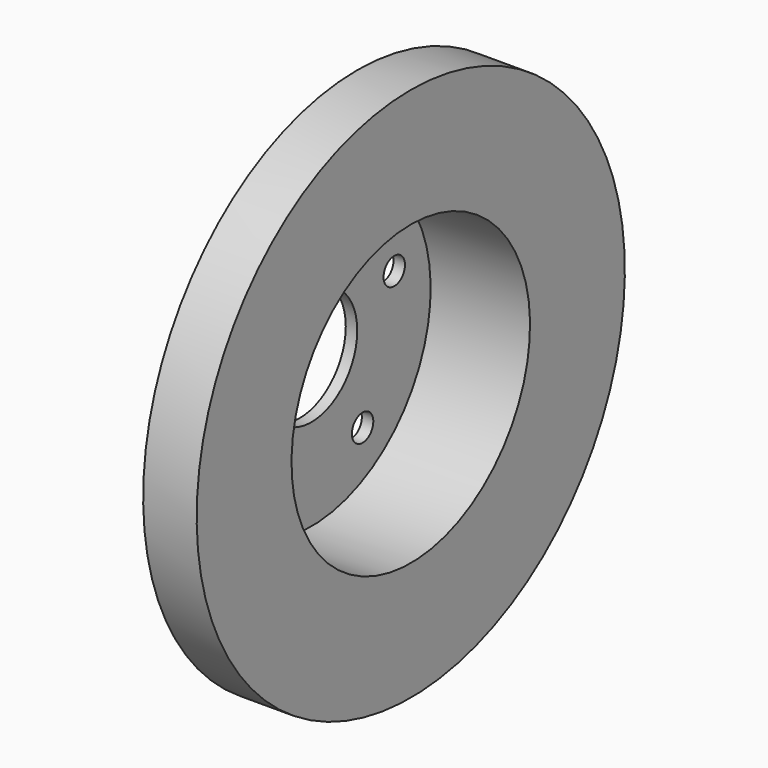
from build123d import *

# Parameters (mm, degrees)
F0_W     = 28
F0_H     = 60
F3_R     = 30
F3_R_2   = 7
F4_DEPTH = 7
F5_COUNT = 5


with BuildPart() as f1:
    # F0 (on Front) → F1 (revolve)
    with BuildSketch(Plane.XZ):
        Polygon((-52, 78), (0, 78), (0, 80), (-28, 80), (-52, 80), align=None)
        with Locations((-14, 110)):
            Rectangle(F0_W, F0_H)
        Polygon((-52, 0), (-52, 78), (-52, 80), (-58, 80), (-58, 0), align=None)
    revolve(axis=Axis((-29, 0, 0), (1, 0, 0)))

    # F3 (on offset) → F4 (cut)
    with BuildSketch(Plane.YZ.offset(-58)):
        Circle(F3_R)
        with Locations((0, 57)):
            Circle(F3_R_2)
    f4 = extrude(amount=F4_DEPTH, mode=Mode.SUBTRACT)

    # F5: F4 ×5 about axis
    f5_axis = Axis((-58, 0, 0), (1, 0, 0))
    for i in range(1, F5_COUNT):
        add(f4.solids().sort_by_distance((-54.5, -7, 57))[0].rotate(f5_axis, i * 360 / F5_COUNT), mode=Mode.SUBTRACT)


solid = f1.part
